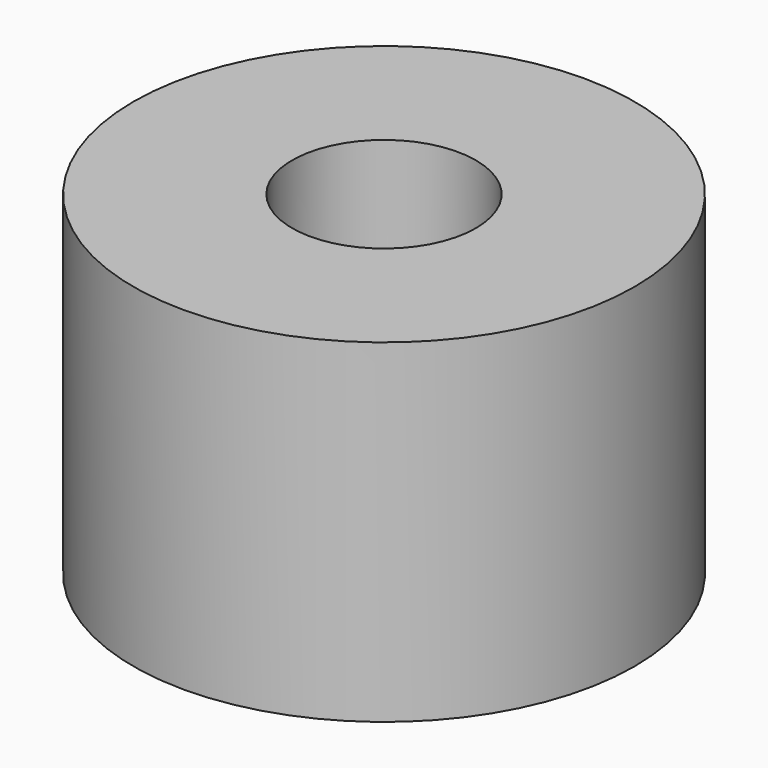
from build123d import *

# Parameters (mm, degrees)
CYLINDER1180_R     = 1
CYLINDER1180_DEPTH = 20
CYLINDER1182_R     = 1
CYLINDER1182_DEPTH = 20
CYLINDER1183_R     = 1
CYLINDER1183_DEPTH = 20
CYLINDER1176_R     = 1
CYLINDER1176_DEPTH = 20
TUBE106_R          = 7.5
TUBE106_R_2        = 2.75
TUBE106_DEPTH      = 10


with BuildPart() as obj1:
    # Cylinder1180 → Cylinder1180 (new body)
    with BuildSketch(Plane(origin=(4, -4, -88), x_dir=(0, 1, 0), z_dir=(0, 0, 1))):
        Circle(CYLINDER1180_R)
    extrude(amount=CYLINDER1180_DEPTH)


with BuildPart() as obj2:
    # Cylinder1182 → Cylinder1182 (new body)
    with BuildSketch(Plane(origin=(4, 4, -88), x_dir=(-1, 0, 0), z_dir=(0, 0, 1))):
        Circle(CYLINDER1182_R)
    extrude(amount=CYLINDER1182_DEPTH)


with BuildPart() as obj3:
    # Cylinder1183 → Cylinder1183 (new body)
    with BuildSketch(Plane(origin=(-4, 4, -88), x_dir=(0, -1, 0), z_dir=(0, 0, 1))):
        Circle(CYLINDER1183_R)
    extrude(amount=CYLINDER1183_DEPTH)


with BuildPart() as compound889:
    # Cylinder1176 → Cylinder1176 (new body)
    with BuildSketch(Plane(origin=(-4, -4, -88), x_dir=(1, 0, 0), z_dir=(0, 0, 1))):
        Circle(CYLINDER1176_R)
    extrude(amount=CYLINDER1176_DEPTH)

    # Compound889: union obj1, obj2, obj3
    add(obj1.part)
    add(obj2.part)
    add(obj3.part)


with BuildPart() as compound889_1:
    # Compound889 placement: moved
    add(compound889.part.moved(Location((0, 0, 91))))


with BuildPart() as cut440:
    # Tube106 → Tube106 (new body)
    with BuildSketch(Plane.XY.offset(19)):
        Circle(TUBE106_R)
        Circle(TUBE106_R_2, mode=Mode.SUBTRACT)
    extrude(amount=TUBE106_DEPTH)

    # Cut440: cut Compound889
    add(compound889_1.part, mode=Mode.SUBTRACT)


solid = cut440.part
